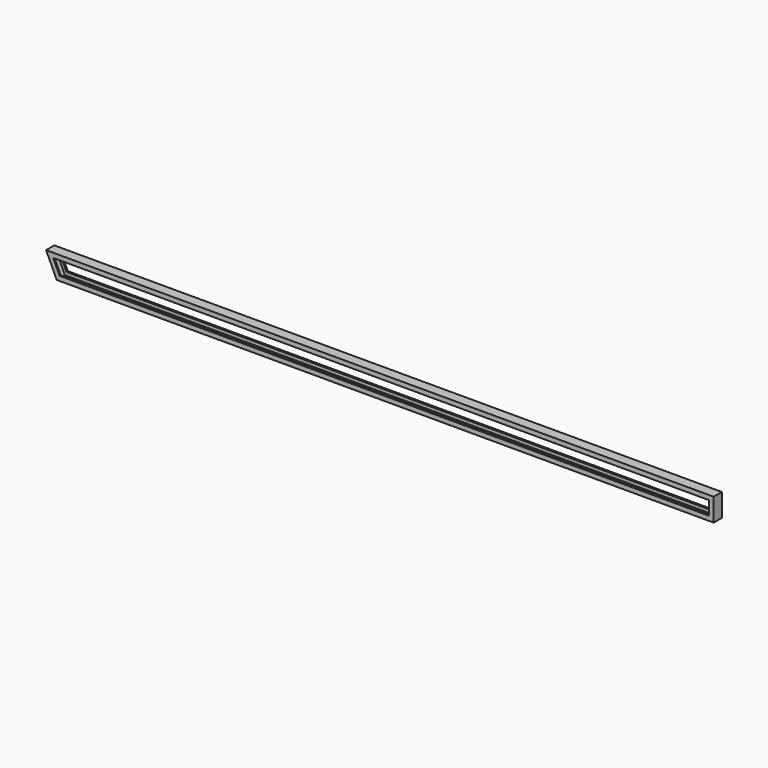
from build123d import *


with BuildPart() as f2:
    # F2: sweep along a path in F0
    with BuildLine(Plane.XZ) as f2_path:
        Line((0, 0), (5757, 0))
        Line((5757, 0), (5757, 200))
        Line((5757, 200), (-93, 200))
        Line((-93, 200), (0, 0))
    # F1 (on Right) → F2 (sweep)
    with BuildSketch(Plane.YZ):
        Polygon((-45, 0), (0, 0), (45, 0), (45, 40), (33, 40), (33, 37), (42, 37), (42, 3), (0, 3), (-42, 3), (-42, 37), (-33, 37), (-33, 40), (-45, 40), align=None)
    sweep(path=f2_path.line, transition=Transition.RIGHT)


solid = f2.part
